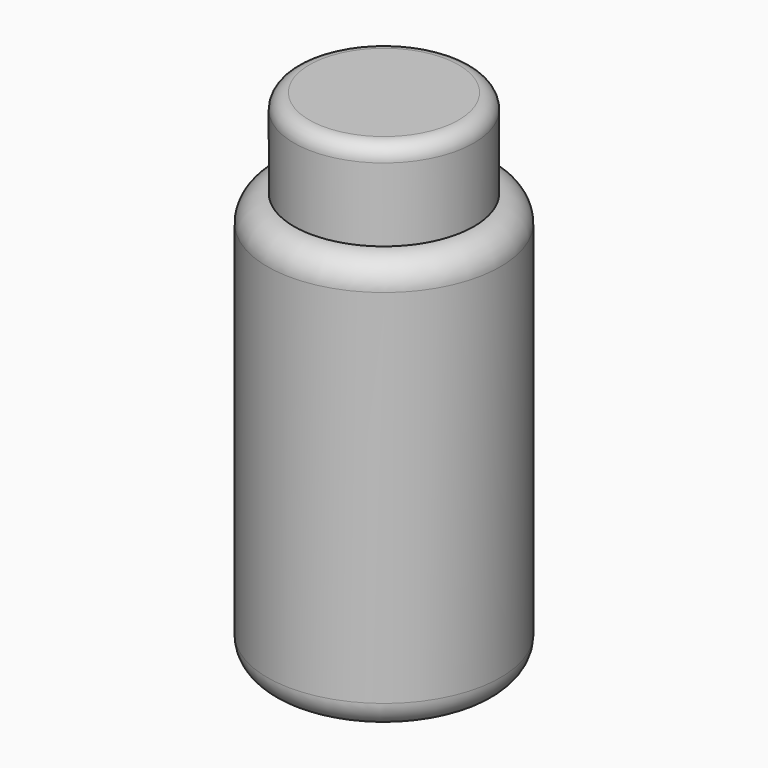
from build123d import *

# Parameters (mm, degrees)
F2_R     = 7
F3_R     = 23.533943
F4_DEPTH = 23.2
F5_R     = 4


with BuildPart() as f1:
    # F0 (on Front) → F1 (revolve)
    with BuildSketch(Plane.XZ):
        with BuildLine():
            Line((-30.5, -54.3), (0, -54.3))
            Line((0, -54.3), (0, 54.3))
            Line((0, 54.3), (-23.5, 54.3))
            ThreePointArc((-23.5, 54.3), (-28.449747, 52.249747), (-30.5, 47.3))
            Line((-30.5, 47.3), (-30.5, -54.3))
        make_face()
    revolve(axis=Axis((0, 0, 0), (0, 0, -1)))

    # F2
    f2_edges = [f1.edges().sort_by_distance(p)[0] for p in [
        (30.5, 0, -54.3),
    ]]
    fillet(f2_edges, radius=F2_R)

    # F3 (on face) → F4 (join)
    with BuildSketch(Plane.XY.offset(54.3)):
        Circle(F3_R)
    extrude(amount=F4_DEPTH)

    # F5
    f5_edges = [f1.edges().sort_by_distance(p)[0] for p in [
        (-23.533943, 0, 77.5),
    ]]
    fillet(f5_edges, radius=F5_R)


solid = f1.part
